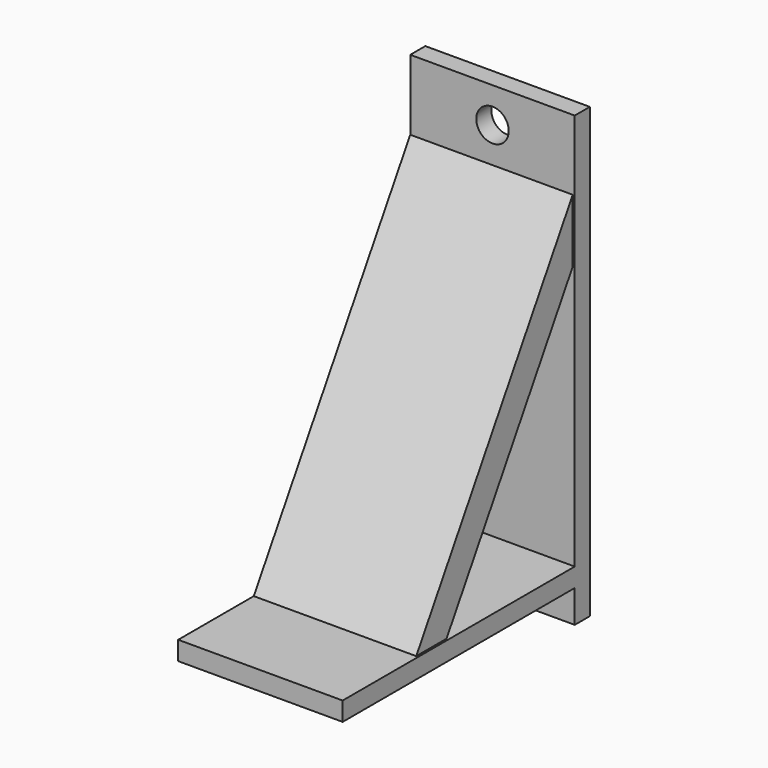
from build123d import *

# Parameters (mm, degrees)
F0_W     = 25.31
F0_H     = 69
F1_DEPTH = 1.45
F2_W     = 25.31
F2_H     = 2.9
F3_DEPTH = 44.64
F8_DEPTH = 25
F10_D    = 5


with BuildPart() as f1:
    # F0 (on Front) → F1 (new body, symmetric)
    with BuildSketch(Plane.XZ):
        Rectangle(F0_W, F0_H)
    extrude(amount=F1_DEPTH, both=True)

    # F2 (on face) → F3 (join)
    with BuildSketch(Plane.XZ.offset(1.45)):
        with Locations((0, -28.05)):
            Rectangle(F2_W, F2_H)
    extrude(amount=F3_DEPTH)

    # F7 (on line) → F8 (join)
    with BuildSketch(Plane(origin=(-12.655, 0, 0), x_dir=(0, -1, 0), z_dir=(-1, 0, 0))):
        Polygon((25.722218447, -26.6), (31.55, -26.6), (1.45, 23.67), (1.45, 13.9370239645), align=None)
    extrude(amount=-F8_DEPTH)

    # F10 (through all)
    with Locations(Plane.XZ.offset(1.45)):
        with Locations((0, 29.1)):
            Hole(F10_D / 2)


solid = f1.part
